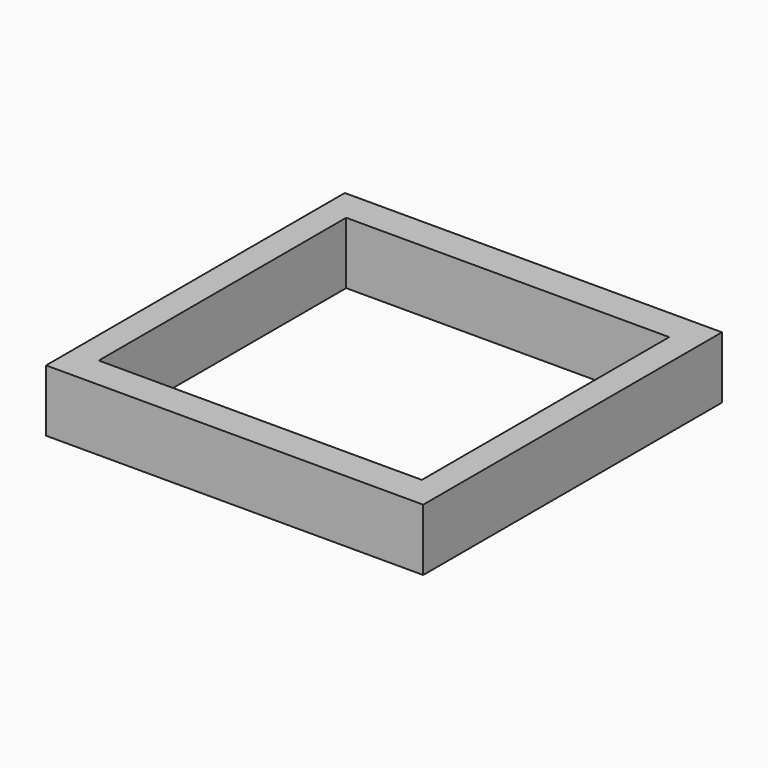
from build123d import *

# Parameters (mm, degrees)
F1_W     = 154.643446
F1_H     = 153.100938
F1_W_2   = 132.469506
F1_H_2   = 126.805068
F2_DEPTH = 25.4


with BuildPart() as f2:
    # F1 (on face) → F2 (new body)
    with BuildSketch(Plane.XY):
        Rectangle(F1_W, F1_H)
        Rectangle(F1_W_2, F1_H_2, mode=Mode.SUBTRACT)
    extrude(amount=F2_DEPTH)


solid = f2.part
